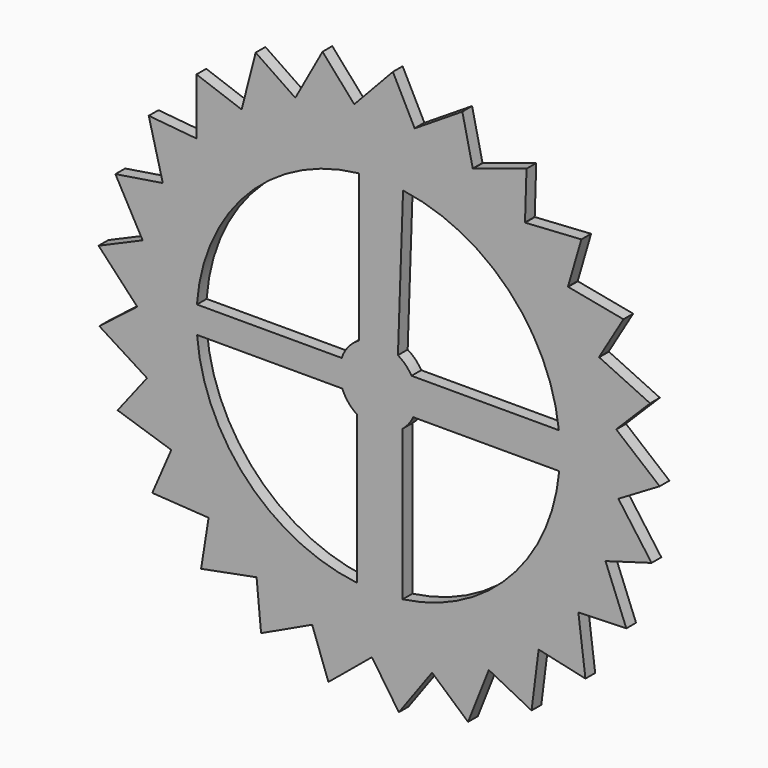
from build123d import *

# Parameters (mm, degrees)
F1_DEPTH = 3.175


with BuildPart() as f1:
    # F0 (on Front) → F1 (new body)
    with BuildSketch(Plane.XZ):
        with BuildLine():
            ThreePointArc((62.7121740453, -5.569838893), (62.8972882371, -2.7876533502), (62.9590333374, 0))
            ThreePointArc((62.9590333374, 0), (62.7530476298, 5.088702384), (62.1364383711, 10.1441069263))
            ThreePointArc((62.1364383711, 10.1441069263), (62.1317848967, 10.1725701931), (62.1271183838, 10.2010313252))
            ThreePointArc((62.1271183838, 10.2010313252), (60.3668960989, 17.879533947), (57.6615710919, 25.2781150008))
            ThreePointArc((57.6615710919, 25.2781150008), (57.6499852883, 25.3045267697), (57.6383873868, 25.3309332285))
            ThreePointArc((57.6383873868, 25.3309332285), (54.0238997712, 32.3304520892), (49.5636152365, 38.8238061434))
            ThreePointArc((49.5636152365, 38.8238061434), (49.5458250824, 38.8465068659), (49.5280245311, 38.8691994364))
            ThreePointArc((49.5280245311, 38.8691994364), (44.2863831348, 44.7499290236), (38.3513951536, 49.9300547621))
            ThreePointArc((38.3513951536, 49.9300547621), (38.3285184698, 49.9476180682), (38.3056337427, 49.9651708928))
            ThreePointArc((38.3056337427, 49.9651708928), (31.7661901722, 54.3576033387), (24.7294158667, 57.8990144102))
            ThreePointArc((24.7294158667, 57.8990144102), (24.7028900793, 57.9103367328), (24.6763591081, 57.9216469029))
            ThreePointArc((24.6763591081, 57.9216469029), (17.2500106531, 60.5497895227), (9.5535964324, 62.2299660452))
            ThreePointArc((9.5535964324, 62.2299660452), (9.5250882543, 62.2343359612), (9.4965780774, 62.2386928172))
            ThreePointArc((9.4965780774, 62.2386928172), (1.6499495237, 62.9374097445), (-6.2225106014, 62.6507800478))
            ThreePointArc((-6.2225106014, 62.6507800478), (-6.2512098966, 62.6479229792), (-6.2799078799, 62.6450527639))
            ThreePointArc((-6.2799078799, 62.6450527639), (-14.0537840025, 61.3704410444), (-21.6076344094, 59.1350151265))
            ThreePointArc((-21.6076344094, 59.1350151265), (-21.6347215393, 59.1251105935), (-21.6618041293, 59.1151936531))
            ThreePointArc((-21.6618041293, 59.1151936531), (-28.8744665935, 55.9473418289), (-35.63507108, 51.9035797214))
            ThreePointArc((-35.63507108, 51.9035797214), (-35.6588440608, 51.8872500623), (-35.6826095586, 51.8709095146))
            ThreePointArc((-35.6826095586, 51.8709095146), (-41.8808602557, 47.0088653663), (-47.4234251781, 41.4108515145))
            ThreePointArc((-47.4234251781, 41.4108515145), (-47.4423902659, 41.3891227817), (-47.4613453979, 41.3673853634))
            ThreePointArc((-47.4613453979, 41.3673853634), (-52.2557254409, 35.1166490062), (-56.2319910611, 28.3161272084))
            ThreePointArc((-56.2319910611, 28.3161272084), (-56.2449566097, 28.2903646982), (-56.2579103552, 28.2645962512))
            ThreePointArc((-56.2579103552, 28.2645962512), (-59.3471712136, 21.017924439), (-61.5072941389, 13.4421964904))
            ThreePointArc((-61.5072941389, 13.4421964904), (-61.5134454752, 13.414018956), (-61.5195839028, 13.3858386066))
            ThreePointArc((-61.5195839028, 13.3858386066), (-62.7096159553, 5.5985663809), (-62.917867718, -2.27635687))
            ThreePointArc((-62.917867718, -2.27635687), (-62.9168183308, -2.3051789305), (-62.9157557406, -2.3340005073))
            ThreePointArc((-62.9157557406, -2.3340005073), (-62.1317848967, -10.1725701931), (-60.3750802726, -17.8518783565))
            ThreePointArc((-60.3750802726, -17.8518783565), (-60.3668960989, -17.879533947), (-60.3586992572, -17.9071857854))
            ThreePointArc((-60.3586992572, -17.9071857854), (-57.6499852883, -25.3045267697), (-54.0387044897, -32.3057006712))
            ThreePointArc((-54.0387044897, -32.3057006712), (-54.0238997712, -32.3304520892), (-54.0090837158, -32.3551967227))
            ThreePointArc((-54.0090837158, -32.3551967227), (-49.5458250824, -38.8465068659), (-44.3068781632, -44.7296370006))
            ThreePointArc((-44.3068781632, -44.7296370006), (-44.2863831348, -44.7499290236), (-44.2658788129, -44.7702116557))
            ThreePointArc((-44.2658788129, -44.7702116557), (-38.3285184698, -49.9476180682), (-31.7910877325, -54.3430457332))
            ThreePointArc((-31.7910877325, -54.3430457332), (-31.7661901722, -54.3576033387), (-31.7412859458, -54.3721495371))
            ThreePointArc((-31.7412859458, -54.3721495371), (-24.7028900793, -57.9103367328), (-17.27774634, -60.5418810427))
            ThreePointArc((-17.27774634, -60.5418810427), (-17.2500106531, -60.5497895227), (-17.2222713463, -60.5576852964))
            ThreePointArc((-17.2222713463, -60.5576852964), (-9.5250882543, -62.2343359612), (-1.678780602, -62.9366473088))
            ThreePointArc((-1.678780602, -62.9366473088), (-1.6499495237, -62.9374097445), (-1.6211180991, -62.9381589728))
            ThreePointArc((-1.6211180991, -62.9381589728), (6.2512098966, -62.6479229792), (14.0256690955, -61.3768725596))
            ThreePointArc((14.0256690955, -61.3768725596), (14.0537840025, -61.3704410444), (14.0818959603, -61.3639966507))
            ThreePointArc((14.0818959603, -61.3639966507), (21.6347215393, -59.1251105935), (28.8488344208, -55.9605631792))
            ThreePointArc((28.8488344208, -55.9605631792), (28.8744665935, -55.9473418289), (28.900092707, -55.9341087379))
            ThreePointArc((28.900092707, -55.9341087379), (35.6588440608, -51.8872500623), (41.8593213809, -47.0280458057))
            ThreePointArc((41.8593213809, -47.0280458057), (41.8808602557, -47.0088653663), (41.9023903417, -46.989675062))
            ThreePointArc((41.9023903417, -46.989675062), (47.4423902659, -41.3891227817), (52.2396332309, -35.1405833572))
            ThreePointArc((52.2396332309, -35.1405833572), (52.2557254409, -35.1166490062), (52.2718066851, -35.0927072859))
            ThreePointArc((52.2718066851, -35.0927072859), (56.2449566097, -28.2903646982), (59.3375368009, -21.0451088183))
            ThreePointArc((59.3375368009, -21.0451088183), (59.3471712136, -21.017924439), (59.3567931722, -20.9907356491))
            ThreePointArc((59.3567931722, -20.9907356491), (61.5134454752, -13.414018956), (62.7070447056, -5.6272926939))
            ThreePointArc((62.7070447056, -5.6272926939), (62.7096159553, -5.5985663809), (62.7121740453, -5.569838893))
        make_face()
        with BuildLine():
            ThreePointArc((6.4842174363, 46.9780393361), (34.0214251963, 33.038218524), (47.1479445438, 5.104172893))
            ThreePointArc((47.1479445438, 5.104172893), (47.3545049388, 2.5558007797), (47.4234251781, 0))
            ThreePointArc((47.4234251781, 0), (47.375446226, -2.132686219), (47.2316064517, -4.2610571003))
            ThreePointArc((47.2316064517, -4.2610571003), (34.2791282202, -32.7707586743), (6.3807374771, -46.9922062141))
            ThreePointArc((6.3807374771, -46.9922062141), (0.448456932, -47.4213047269), (-5.4908777614, -47.1044744906))
            ThreePointArc((-5.4908777614, -47.1044744906), (-34.1626695471, -32.8921459476), (-47.2786672976, -3.7025496874))
            ThreePointArc((-47.2786672976, -3.7025496874), (-47.4229358339, -0.2154356435), (-47.3103555233, 3.2728452281))
            ThreePointArc((-47.3103555233, 3.2728452281), (-34.1610578081, 32.8938198612), (-5.0580612114, 47.1529137213))
            ThreePointArc((-5.0580612114, 47.1529137213), (0.7184188591, 47.4179831917), (6.4842174363, 46.9780393361))
        make_face(mode=Mode.SUBTRACT)
        with BuildLine():
            ThreePointArc((62.1364383711, 10.1441069263), (62.7530476298, 5.088702384), (62.9590333374, 0))
            ThreePointArc((62.9590333374, 0), (62.8972882371, -2.7876533502), (62.7121740453, -5.569838893))
            Line((62.7121740453, -5.569838893), (73.4559661565, 0.7797791477))
            Line((73.4559661565, 0.7797791477), (62.1364383711, 10.1441069263))
        make_face()
        with BuildLine():
            ThreePointArc((57.6615710919, 25.2781150008), (60.3668960989, 17.879533947), (62.1271183838, 10.2010313252))
            Line((62.1271183838, 10.2010313252), (70.9542887154, 19.0230368869))
            Line((70.9542887154, 19.0230368869), (57.6615710919, 25.2781150008))
        make_face()
        with BuildLine():
            Line((71.3421350919, -17.5124749832), (62.7070447056, -5.6272926939))
            ThreePointArc((62.7070447056, -5.6272926939), (61.5134454752, -13.414018956), (59.3567931722, -20.9907356491))
            Line((59.3567931722, -20.9907356491), (71.3421350919, -17.5124749832))
        make_face()
        with BuildLine():
            ThreePointArc((49.5636152365, 38.8238061434), (54.0238997712, 32.3304520892), (57.6383873868, 25.3309332285))
            Line((57.6383873868, 25.3309332285), (63.9942923626, 36.0710072567))
            Line((63.9942923626, 36.0710072567), (49.5636152365, 38.8238061434))
        make_face()
        with BuildLine():
            Line((64.7456153015, -34.7043559045), (59.3375368009, -21.0451088183))
            ThreePointArc((59.3375368009, -21.0451088183), (56.2449566097, -28.2903646982), (52.2718066851, -35.0927072859))
            Line((52.2718066851, -35.0927072859), (64.7456153015, -34.7043559045))
        make_face()
        with BuildLine():
            ThreePointArc((38.3513951536, 49.9300547621), (44.2863831348, 44.7499290236), (49.5280245311, 38.8691994364))
            Line((49.5280245311, 38.8691994364), (53.0132992662, 50.8525035807))
            Line((53.0132992662, 50.8525035807), (38.3513951536, 49.9300547621))
        make_face()
        with BuildLine():
            Line((54.0808903839, -49.7156345106), (52.2396332309, -35.1405833572))
            ThreePointArc((52.2396332309, -35.1405833572), (47.4423902659, -41.3891227817), (41.9023903417, -46.989675062))
            Line((41.9023903417, -46.989675062), (54.0808903839, -49.7156345106))
        make_face()
        with BuildLine():
            ThreePointArc((24.7294158667, 57.8990144102), (31.7661901722, 54.3576033387), (38.3056337427, 49.9651708928))
            Line((38.3056337427, 49.9651708928), (38.7012856076, 62.4387500822))
            Line((38.7012856076, 62.4387500822), (24.7294158667, 57.8990144102))
        make_face()
        with BuildLine():
            Line((40.0180642279, -61.6030969592), (41.8593213809, -47.0280458057))
            ThreePointArc((41.8593213809, -47.0280458057), (35.6588440608, -51.8872500623), (28.900092707, -55.9341087379))
            Line((28.900092707, -55.9341087379), (40.0180642279, -61.6030969592))
        make_face()
        with BuildLine():
            ThreePointArc((9.5535964324, 62.2299660452), (17.2500106531, 60.5497895227), (24.6763591081, 57.9216469029))
            Line((24.6763591081, 57.9216469029), (21.9575278409, 70.1017402824))
            Line((21.9575278409, 70.1017402824), (9.5535964324, 62.2299660452))
        make_face()
        with BuildLine():
            Line((23.4407559203, -69.6198102654), (28.8488344208, -55.9605631792))
            ThreePointArc((28.8488344208, -55.9605631792), (21.6347215393, -59.1251105935), (14.0818959603, -61.3639966507))
            Line((14.0818959603, -61.3639966507), (23.4407559203, -69.6198102654))
        make_face()
        with BuildLine():
            ThreePointArc((-6.2225106014, 62.6507800478), (1.6499495237, 62.9374097445), (9.4965780774, 62.2386928172))
            Line((9.4965780774, 62.2386928172), (3.8340978458, 73.3599803245))
            Line((3.8340978458, 73.3599803245), (-6.2225106014, 62.6507800478))
        make_face()
        with BuildLine():
            Line((5.3905787092, -73.2620548489), (14.0256690955, -61.3768725596))
            ThreePointArc((14.0256690955, -61.3768725596), (6.2512098966, -62.6479229792), (-1.6211180991, -62.9381589728))
            Line((-1.6211180991, -62.9381589728), (5.3905787092, -73.2620548489))
        make_face()
        with BuildLine():
            ThreePointArc((-21.6076344094, 59.1350151265), (-14.0537840025, 61.3704410444), (-6.2799078799, 62.6450527639))
            Line((-6.2799078799, 62.6450527639), (-14.5302426178, 72.0087430037))
            Line((-14.5302426178, 72.0087430037), (-21.6076344094, 59.1350151265))
        make_face()
        with BuildLine():
            Line((-12.9983083874, -72.3009750873), (-1.678780602, -62.9366473088))
            ThreePointArc((-1.678780602, -62.9366473088), (-9.5250882543, -62.2343359612), (-17.2222713463, -60.5576852964))
            Line((-17.2222713463, -60.5576852964), (-12.9983083874, -72.3009750873))
        make_face()
        with BuildLine():
            ThreePointArc((-35.63507108, 51.9035797214), (-28.8744665935, 55.9473418289), (-21.6618041293, 59.1151936531))
            Line((-21.6618041293, 59.1151936531), (-31.9815944992, 66.1329315304))
            Line((-31.9815944992, 66.1329315304), (-35.63507108, 51.9035797214))
        make_face()
        with BuildLine():
            Line((-30.5704639635, -66.7969591566), (-17.27774634, -60.5418810427))
            ThreePointArc((-17.27774634, -60.5418810427), (-24.7028900793, -57.9103367328), (-31.7412859458, -54.3721495371))
            Line((-31.7412859458, -54.3721495371), (-30.5704639635, -66.7969591566))
        make_face()
        with BuildLine():
            ThreePointArc((-47.4234251781, 41.4108515145), (-41.8808602557, 47.0088653663), (-35.6826095586, 51.8709095146))
            Line((-35.6826095586, 51.8709095146), (-47.4234251781, 56.101744749))
            Line((-47.4234251781, 56.101744749), (-47.4234251781, 41.4108515145))
        make_face()
        with BuildLine():
            Line((-46.2217648586, -57.09584462), (-31.7910877325, -54.3430457332))
            ThreePointArc((-31.7910877325, -54.3430457332), (-38.3285184698, -49.9476180682), (-44.2658788129, -44.7702116557))
            Line((-44.2658788129, -44.7702116557), (-46.2217648586, -57.09584462))
        make_face()
        with BuildLine():
            ThreePointArc((-56.2319910611, 28.3161272084), (-52.2557254409, 35.1166490062), (-47.4613453979, 41.3673853634))
            Line((-47.4613453979, 41.3673853634), (-59.8854676419, 42.5454790173))
            Line((-59.8854676419, 42.5454790173), (-56.2319910611, 28.3161272084))
        make_face()
        with BuildLine():
            Line((-58.9687822758, -43.8071881821), (-44.3068781632, -44.7296370006))
            ThreePointArc((-44.3068781632, -44.7296370006), (-49.5458250824, -38.8465068659), (-54.0090837158, -32.3551967227))
            Line((-54.0090837158, -32.3551967227), (-58.9687822758, -43.8071881821))
        make_face()
        with BuildLine():
            ThreePointArc((-61.5072941389, 13.4421964904), (-59.3471712136, 21.017924439), (-56.2579103552, 28.2645962512))
            Line((-56.2579103552, 28.2645962512), (-68.5846859305, 26.3159243676))
            Line((-68.5846859305, 26.3159243676), (-61.5072941389, 13.4421964904))
        make_face()
        with BuildLine():
            Line((-68.0105742306, -27.7659649991), (-54.0387044897, -32.3057006712))
            ThreePointArc((-54.0387044897, -32.3057006712), (-57.6499852883, -25.3045267697), (-60.3586992572, -17.9071857854))
            Line((-60.3586992572, -17.9071857854), (-68.0105742306, -27.7659649991))
        make_face()
        with BuildLine():
            ThreePointArc((-62.917867718, -2.27635687), (-62.7096159553, 5.5985663809), (-61.5195839028, 13.3858386066))
            Line((-61.5195839028, 13.3858386066), (-72.9744761652, 8.4328434067))
            Line((-72.9744761652, 8.4328434067), (-62.917867718, -2.27635687))
        make_face()
        with BuildLine():
            Line((-72.7790116811, -9.9801041192), (-60.3750802726, -17.8518783565))
            ThreePointArc((-60.3750802726, -17.8518783565), (-62.1317848967, -10.1725701931), (-62.9157557406, -2.3340005073))
            Line((-62.9157557406, -2.3340005073), (-72.7790116811, -9.9801041192))
        make_face()
        with BuildLine():
            ThreePointArc((-5.0580612114, 8.722388835), (0.0508326683, 10.0827310907), (5.1457507073, 8.6709457308))
            Line((5.1457507073, 8.6709457308), (6.4842174363, 46.9780393361))
            ThreePointArc((6.4842174363, 46.9780393361), (0.7184188591, 47.4179831917), (-5.0580612114, 47.1529137213))
            Line((-5.0580612114, 47.1529137213), (-5.0580612114, 8.722388835))
        make_face()
        with BuildLine():
            Line((6.3807374771, -46.9922062141), (6.3807374771, -7.8070634336))
            ThreePointArc((6.3807374771, -7.8070634336), (0.5508551492, -10.0678005946), (-5.4908777614, -8.456613484))
            Line((-5.4908777614, -8.456613484), (-5.4908777614, -47.1044744906))
            ThreePointArc((-5.4908777614, -47.1044744906), (0.448456932, -47.4213047269), (6.3807374771, -46.9922062141))
        make_face()
        with BuildLine():
            ThreePointArc((8.6954855693, 5.104172893), (9.7298357417, 2.644682712), (10.0828592278, 0))
            ThreePointArc((10.0828592278, 0), (9.8438723199, -2.1822529543), (9.1382406729, -4.2610571003))
            Line((9.1382406729, -4.2610571003), (47.2316064517, -4.2610571003))
            ThreePointArc((47.2316064517, -4.2610571003), (47.375446226, -2.132686219), (47.4234251781, 0))
            ThreePointArc((47.4234251781, 0), (47.3545049388, 2.5558007797), (47.1479445438, 5.104172893))
            Line((47.1479445438, 5.104172893), (8.6954855693, 5.104172893))
        make_face()
        with BuildLine():
            ThreePointArc((-9.3784420892, -3.7025496874), (-10.0802584886, -0.228995655), (-9.5369038121, 3.2728452281))
            Line((-9.5369038121, 3.2728452281), (-47.3103555233, 3.2728452281))
            ThreePointArc((-47.3103555233, 3.2728452281), (-47.4229358339, -0.2154356435), (-47.2786672976, -3.7025496874))
            Line((-47.2786672976, -3.7025496874), (-9.3784420892, -3.7025496874))
        make_face()
        with BuildLine():
            ThreePointArc((9.1382406729, -4.2610571003), (9.8438723199, -2.1822529543), (10.0828592278, 0))
            ThreePointArc((10.0828592278, 0), (9.7298357417, 2.644682712), (8.6954855693, 5.104172893))
            ThreePointArc((8.6954855693, 5.104172893), (7.1467071113, 7.1125682895), (5.1457507073, 8.6709457308))
            ThreePointArc((5.1457507073, 8.6709457308), (0.0508326683, 10.0827310907), (-5.0580612114, 8.722388835))
            ThreePointArc((-5.0580612114, 8.722388835), (-7.7895848664, 6.4020635593), (-9.5369038121, 3.2728452281))
            ThreePointArc((-9.5369038121, 3.2728452281), (-10.0802584886, -0.228995655), (-9.3784420892, -3.7025496874))
            ThreePointArc((-9.3784420892, -3.7025496874), (-7.8054115106, -6.3827581309), (-5.4908777614, -8.456613484))
            ThreePointArc((-5.4908777614, -8.456613484), (0.5508551492, -10.0678005946), (6.3807374771, -7.8070634336))
            ThreePointArc((6.3807374771, -7.8070634336), (7.9594730312, -6.1895750479), (9.1382406729, -4.2610571003))
        make_face()
    extrude(amount=F1_DEPTH)


solid = f1.part
